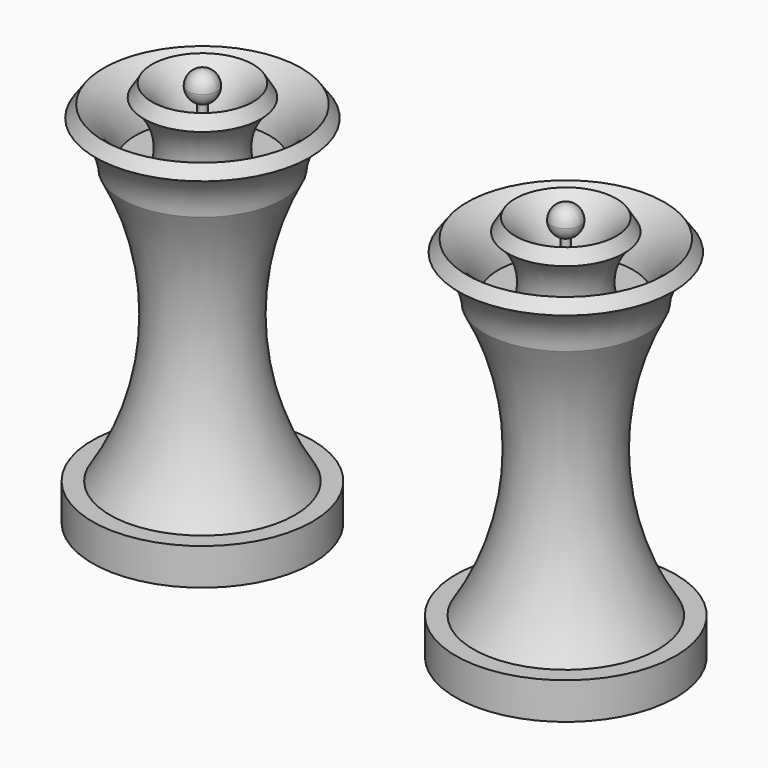
from build123d import *


with BuildPart() as f1:
    # F0 (on Front) → F1 (revolve)
    with BuildSketch(Plane.XZ):
        with BuildLine():
            Line((0, 6.35), (0, 0))
            Line((0, 0), (19.05, 0))
            Line((19.05, 0), (19.05, 6.35))
            Line((19.05, 6.35), (15.994441, 6.35))
            ThreePointArc((15.994441, 6.35), (8.576747, 29.841478), (14.063307, 53.857501))
            ThreePointArc((14.063307, 53.857501), (15.397196, 58.285834), (18.555773, 61.664114))
            Line((18.555773, 61.664114), (17.076342, 63.730075))
            ThreePointArc((17.076342, 63.730075), (13.47644, 60.017313), (11.655165, 55.177182))
            Line((11.655165, 55.177182), (6.773224, 55.177182))
            ThreePointArc((6.773224, 55.177182), (7.152749, 60.429476), (10.110588, 64.78629))
            Line((10.110588, 64.78629), (8.766019, 66.972349))
            ThreePointArc((8.766019, 66.972349), (4.908094, 61.684199), (4.196173, 55.177182))
            Line((4.196173, 55.177182), (0.726944, 55.177182))
            Line((0.726944, 55.177182), (0.726944, 64.123749))
            ThreePointArc((0.726944, 64.123749), (0.367334, 64.044204), (0, 64.017501))
            Line((0, 64.017501), (0, 53.857501))
            Line((0, 53.857501), (0.726944, 53.857501))
            Line((0.726944, 53.857501), (10.615544, 53.857501))
            Line((10.615544, 53.857501), (11.205526, 53.857501))
            ThreePointArc((11.205526, 53.857501), (6.033531, 29.873522), (13.006673, 6.35))
            Line((13.006673, 6.35), (0, 6.35))
        make_face()
        with BuildLine():
            Line((0, 66.557501), (0, 64.017501))
            ThreePointArc((0, 64.017501), (0.367334, 64.044204), (0.726944, 64.123749))
            ThreePointArc((0.726944, 64.123749), (2.036914, 65.040076), (2.54, 66.557501))
            ThreePointArc((2.54, 66.557501), (1.796051, 68.353553), (0, 69.097501))
            Line((0, 69.097501), (0, 66.557501))
        make_face()
    revolve(axis=Axis((0, 0, 3.175), (0, 0, 1)))


with BuildPart() as f2:
    # F0 (on Front) → F2 (revolve)
    with BuildSketch(Plane.XZ):
        with BuildLine():
            Line((62.88439, 6.35), (62.88439, 0))
            Line((62.88439, 0), (81.93439, 0))
            Line((81.93439, 0), (81.93439, 6.35))
            Line((81.93439, 6.35), (78.878832, 6.35))
            ThreePointArc((78.878832, 6.35), (71.461137, 29.841478), (76.947698, 53.857501))
            ThreePointArc((76.947698, 53.857501), (78.281586, 58.285834), (81.440164, 61.664114))
            Line((81.440164, 61.664114), (79.960733, 63.730075))
            ThreePointArc((79.960733, 63.730075), (76.36083, 60.017313), (74.539555, 55.177182))
            Line((74.539555, 55.177182), (69.657614, 55.177182))
            ThreePointArc((69.657614, 55.177182), (70.03714, 60.429476), (72.994978, 64.78629))
            Line((72.994978, 64.78629), (71.65041, 66.972349))
            ThreePointArc((71.65041, 66.972349), (67.792485, 61.684199), (67.080563, 55.177182))
            Line((67.080563, 55.177182), (63.611334, 55.177182))
            Line((63.611334, 55.177182), (63.611334, 64.123749))
            ThreePointArc((63.611334, 64.123749), (63.251724, 64.044204), (62.88439, 64.017501))
            Line((62.88439, 64.017501), (62.88439, 53.857501))
            Line((62.88439, 53.857501), (63.611334, 53.857501))
            Line((63.611334, 53.857501), (73.499935, 53.857501))
            Line((73.499935, 53.857501), (74.089916, 53.857501))
            ThreePointArc((74.089916, 53.857501), (68.917922, 29.873522), (75.891064, 6.35))
            Line((75.891064, 6.35), (62.88439, 6.35))
        make_face()
        with BuildLine():
            Line((62.88439, 66.557501), (62.88439, 64.017501))
            ThreePointArc((62.88439, 64.017501), (63.251724, 64.044204), (63.611334, 64.123749))
            ThreePointArc((63.611334, 64.123749), (64.921304, 65.040076), (65.42439, 66.557501))
            ThreePointArc((65.42439, 66.557501), (64.680442, 68.353553), (62.88439, 69.097501))
            Line((62.88439, 69.097501), (62.88439, 66.557501))
        make_face()
    revolve(axis=Axis((62.88439, 0, 3.175), (0, 0, 1)))


solid = Compound([f1.part, f2.part])
